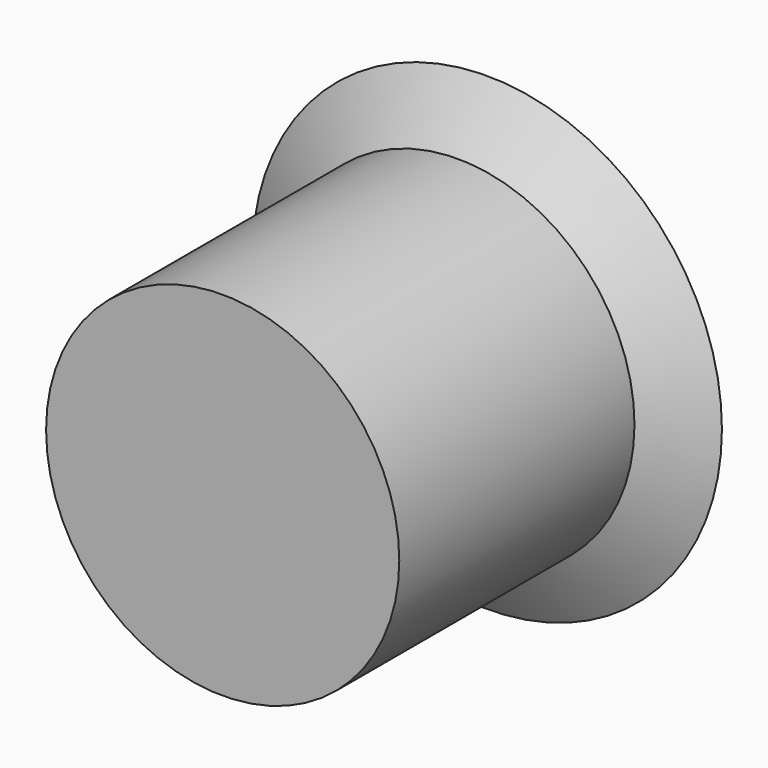
from build123d import *

# Parameters (mm, degrees)
F2_T = -2.54


with BuildPart() as f1:
    # F0 (on Top) → F1 (revolve)
    with BuildSketch(Plane.XY):
        Polygon((31.655497849, 44.5790737867), (0, 44.5790737867), (0, 0), (23.8142292947, 0), (23.8142292947, 39.6419800818), align=None)
    revolve(axis=Axis((0, 22.2895368934, 0), (0, -1, 0)))

    # F2
    f2_openings = [f1.faces().sort_by_distance(p)[0] for p in [
        (0, 44.579074, 0),
    ]]
    offset(amount=F2_T, openings=f2_openings, kind=Kind.INTERSECTION)


solid = f1.part
